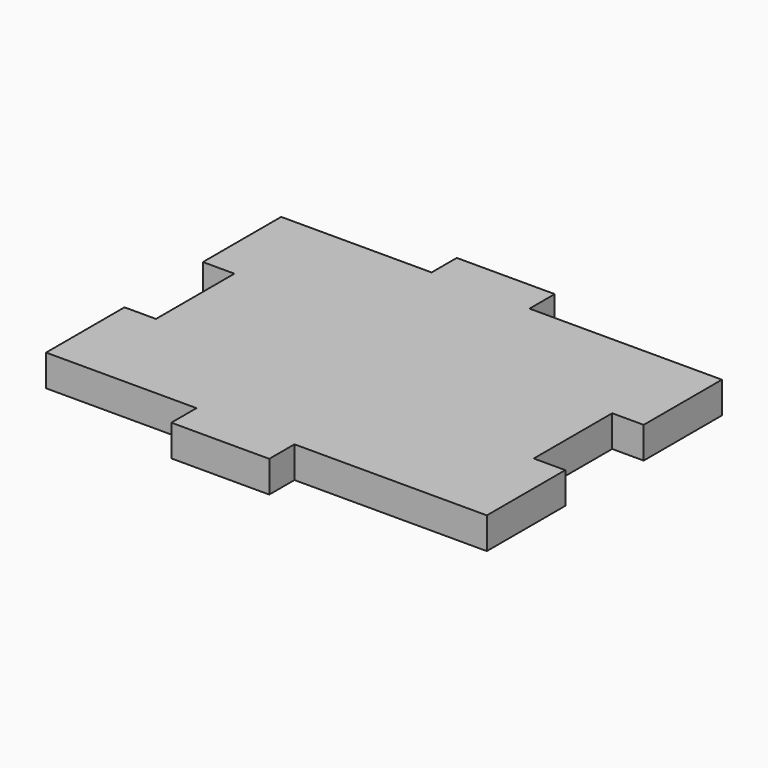
from build123d import *

# Parameters (mm, degrees)
F1_DEPTH = 19.05


with BuildPart() as f1:
    # F0 (on Top) → F1 (new body)
    with BuildSketch(Plane.XY):
        Polygon((-120.65, 29.718), (-101.6, 29.718), (-101.6, -29.591), (-120.65, -29.591), (-120.65, -88.9), (-101.6, -88.9), (-29.633418, -88.9), (-29.633418, -107.95), (29.633418, -107.95), (29.633418, -88.9), (101.6, -88.9), (120.65, -88.9), (146.05, -88.9), (146.05, -29.591), (127, -29.591), (127, 29.718), (146.05, 29.718), (146.05, 88.9), (120.65, 88.9), (101.6, 88.9), (29.633418, 88.9), (29.633418, 107.95), (0, 107.95), (-29.633418, 107.95), (-29.633418, 88.9), (-101.6, 88.9), (-120.65, 88.9), align=None)
    extrude(amount=F1_DEPTH)


solid = f1.part
